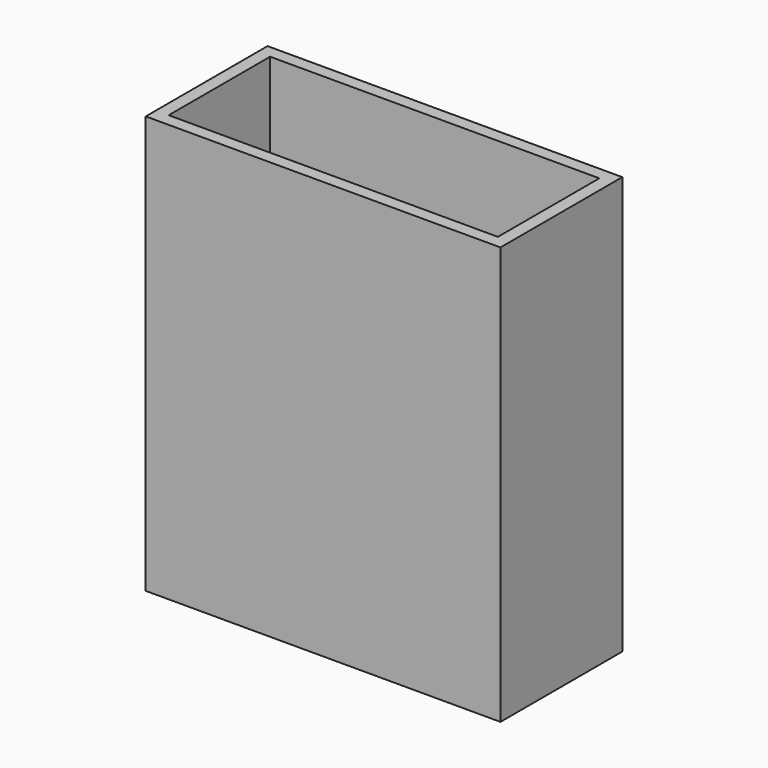
from build123d import *

# Parameters (mm, degrees)
BOX008_W     = 41.3004
BOX008_H     = 15.9004
BOX008_DEPTH = 50.8
BOX007_W     = 44.5008
BOX007_H     = 19.1008
BOX007_DEPTH = 52.4002


with BuildPart() as cube008:
    # Box008 → Box008 (new body)
    with BuildSketch(Plane(origin=(-15.8242, -7.874, -1.6002), x_dir=(1, 0, 0), z_dir=(0, 0, 1))):
        with Locations((20.6502, 7.9502)):
            Rectangle(BOX008_W, BOX008_H)
    extrude(amount=BOX008_DEPTH)


with BuildPart() as cut003:
    # Box007 → Box007 (new body)
    with BuildSketch(Plane(origin=(-17.4244, -9.4742, -3.2004), x_dir=(1, 0, 0), z_dir=(0, 0, 1))):
        with Locations((22.2504, 9.5504)):
            Rectangle(BOX007_W, BOX007_H)
    extrude(amount=BOX007_DEPTH)

    # Cut003: cut Cube008
    add(cube008.part, mode=Mode.SUBTRACT)


solid = cut003.part
